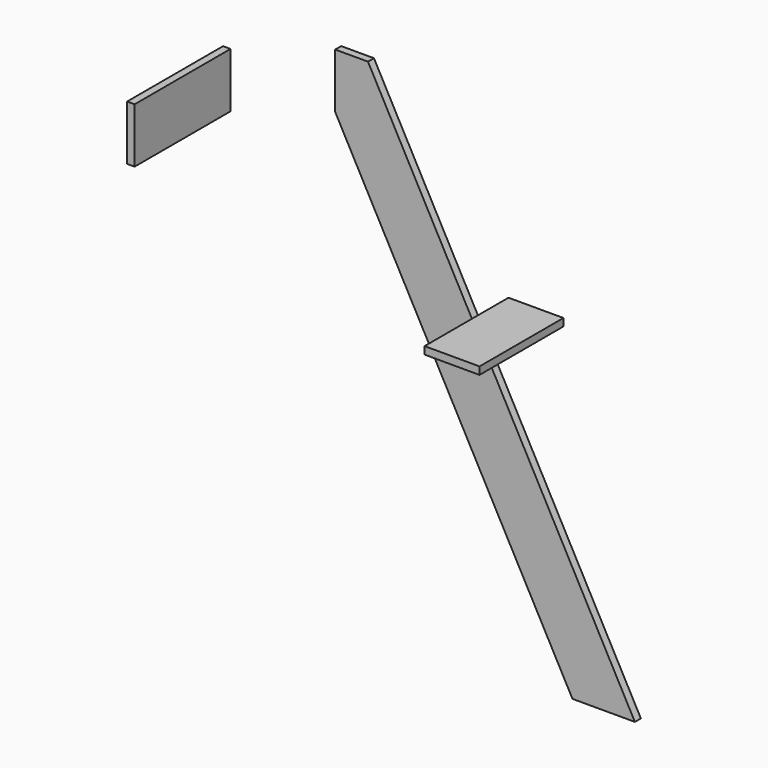
from build123d import *

# Parameters (mm, degrees)
F1_DEPTH = 19.05
F0_W     = 139.7
F0_H     = 19.05
F2_DEPTH = 266.7
F0_W_2   = 19.05
F0_H_2   = 139.7
F3_DEPTH = 304.8


with BuildPart() as f1:
    # F0 (on Front) → F1 (new body)
    with BuildSketch(Plane.XZ):
        Polygon((-245.699638, 260.194001), (-245.699638, 120.494001), (357.548488, -997.105999), (516.300362, -997.105999), (-162.353781, 260.194001), align=None)
    extrude(amount=F1_DEPTH)


with BuildPart() as f2:
    # F0 (on Front) → F2 (new body)
    with BuildSketch(Plane.XZ):
        with Locations((249.548959, -174.189256)):
            Rectangle(F0_W, F0_H)
    extrude(amount=F2_DEPTH)


with BuildPart() as f3:
    # F0 (on Front) → F3 (new body)
    with BuildSketch(Plane.XZ):
        with Locations((-536.635994, 92.461007)):
            Rectangle(F0_W_2, F0_H_2)
    extrude(amount=F3_DEPTH)


solid = Compound([f1.part, f2.part, f3.part])
